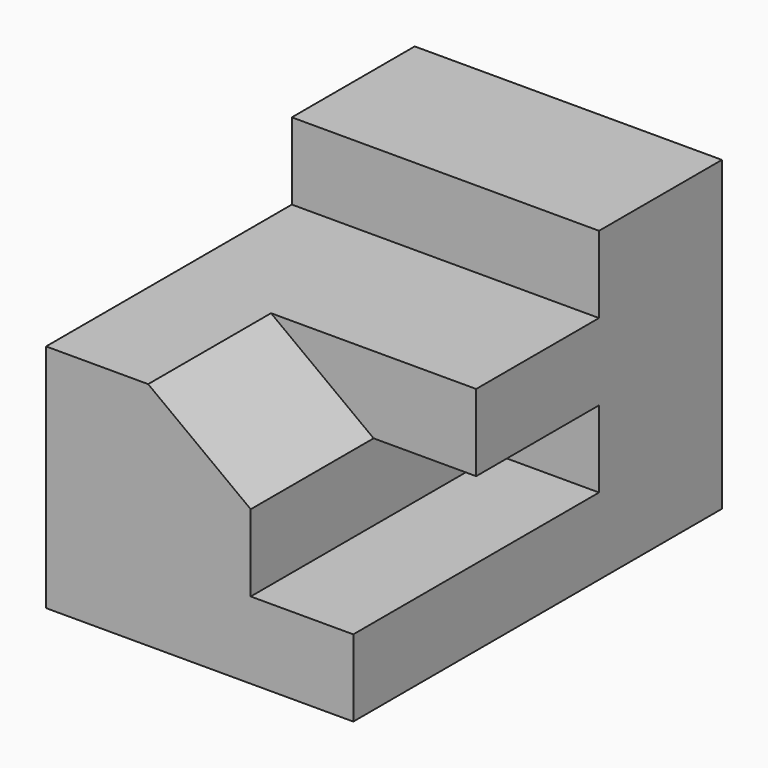
from build123d import *

# Parameters (mm, degrees)
F2_DEPTH = 25.4
F3_DEPTH = 25.4


with BuildPart() as f2:
    # F0 (on Front) → F2 (new body)
    with BuildSketch(Plane.XZ):
        Polygon((0, 6.35), (0, 0), (25.4, 0), (25.4, 6.35), (16.920075, 6.35), align=None)
        Polygon((0, 19.05), (0, 6.35), (16.920075, 6.35), (16.920075, 12.7), (8.440151, 19.05), align=None)
    extrude(amount=-F2_DEPTH)

    # F1 (on Right) → F3 (join)
    with BuildSketch(Plane.YZ):
        Polygon((0, 6.35), (0, 0), (38.1, 0), (38.1, 6.35), (25.4, 6.35), (12.7, 6.35), align=None)
        Polygon((25.4, 6.35), (38.1, 6.35), (38.1, 25.4), (25.4, 25.4), (25.4, 19.05), (12.7, 19.05), (12.7, 12.7), (25.4, 12.7), align=None)
    extrude(amount=F3_DEPTH)


solid = f2.part
